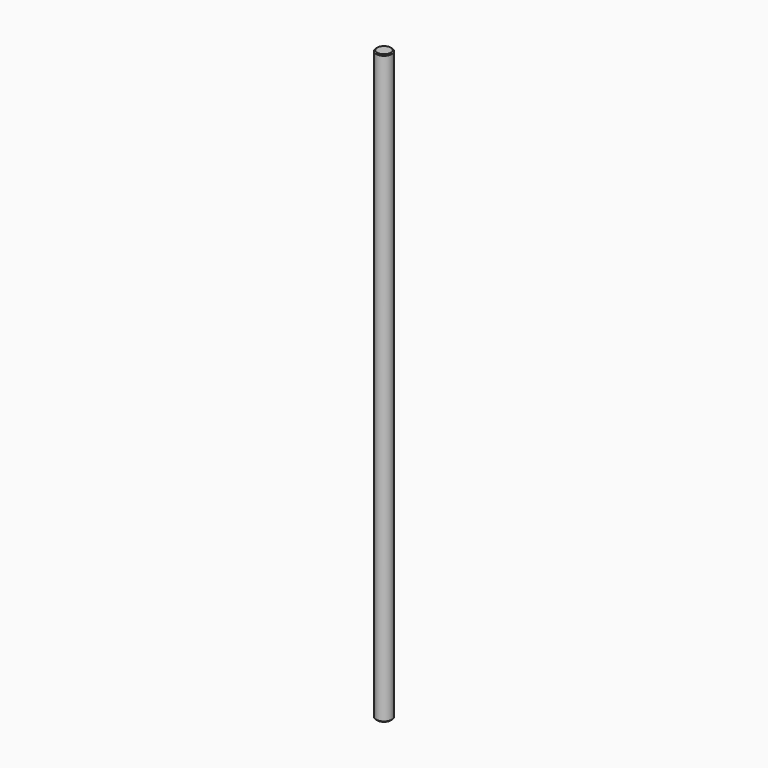
from build123d import *

# Parameters (mm, degrees)
SKETCH_R     = 4
PAD_DEPTH    = 300
CHAMFER_SIZE = 0.5


with BuildPart() as part:
    # Sketch → Pad (new body)
    with BuildSketch(Plane.XY):
        Circle(SKETCH_R)
    extrude(amount=PAD_DEPTH)

    # Chamfer
    chamfer_edges = [part.edges().sort_by_distance(p)[0] for p in [
        (-4, 0, 0),
        (-4, 0, 300),
    ]]
    chamfer(chamfer_edges, length=CHAMFER_SIZE)


solid = part.part
